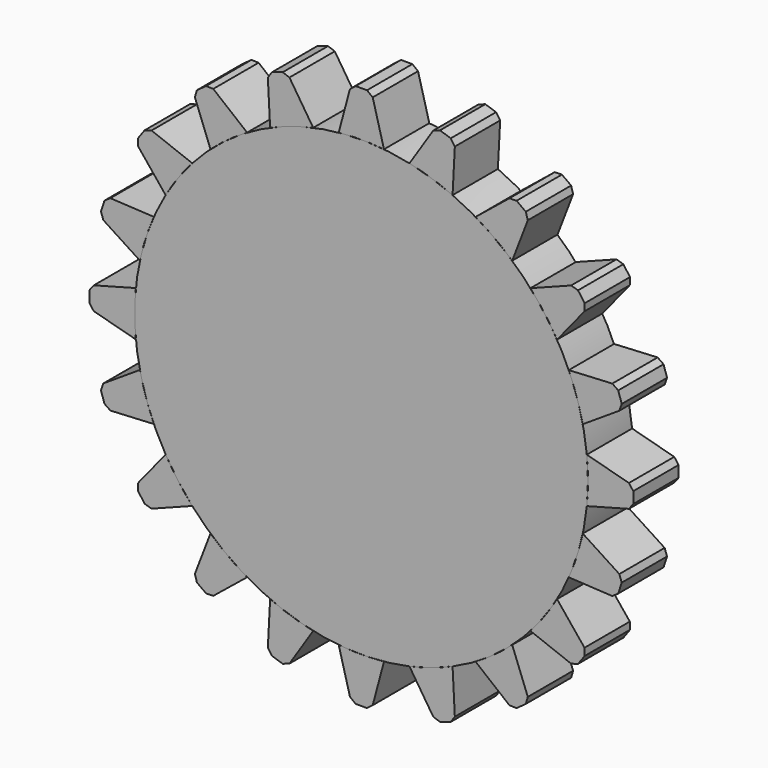
from build123d import *

# Parameters (mm, degrees)
F0_R     = 100
F1_DEPTH = 25
F3_DEPTH = 25
F4_SIZE  = 2
F5_COUNT = 20


with BuildPart() as f1:
    # F0 (on Front) → F1 (new body)
    with BuildSketch(Plane.XZ):
        Circle(F0_R)
    extrude(amount=F1_DEPTH)


with BuildPart() as f3:
    # F2 (on face) → F3 (new body)
    with BuildSketch(Plane.XZ.offset(25)):
        with BuildLine():
            Line((-4.5, 120.000239), (-9.993175, 99.499429))
            ThreePointArc((-9.993175, 99.499429), (0, 100), (9.993175, 99.499429))
            Line((9.993175, 99.499429), (4.5, 120.000239))
            Line((4.5, 120.000239), (-4.5, 120.000239))
        make_face()
    extrude(amount=-F3_DEPTH)

    # F4
    f4_edges = [f3.edges().sort_by_distance(p)[0] for p in [
        (-4.5, -12.5, 120.000239),
        (4.5, -12.5, 120.000239),
    ]]
    chamfer(f4_edges, length=F4_SIZE)


with BuildPart() as f5_1:
    # F5: instance of F3
    add(f3.part.rotate(Axis((0, -25, 0), (0, -1, 0)), 1 * 360 / F5_COUNT))


with BuildPart() as f5_2:
    # F5: instance of F3
    add(f3.part.rotate(Axis((0, -25, 0), (0, -1, 0)), 2 * 360 / F5_COUNT))


with BuildPart() as f5_3:
    # F5: instance of F3
    add(f3.part.rotate(Axis((0, -25, 0), (0, -1, 0)), 3 * 360 / F5_COUNT))


with BuildPart() as f5_4:
    # F5: instance of F3
    add(f3.part.rotate(Axis((0, -25, 0), (0, -1, 0)), 4 * 360 / F5_COUNT))


with BuildPart() as f5_5:
    # F5: instance of F3
    add(f3.part.rotate(Axis((0, -25, 0), (0, -1, 0)), 5 * 360 / F5_COUNT))


with BuildPart() as f5_6:
    # F5: instance of F3
    add(f3.part.rotate(Axis((0, -25, 0), (0, -1, 0)), 6 * 360 / F5_COUNT))


with BuildPart() as f5_7:
    # F5: instance of F3
    add(f3.part.rotate(Axis((0, -25, 0), (0, -1, 0)), 7 * 360 / F5_COUNT))


with BuildPart() as f5_8:
    # F5: instance of F3
    add(f3.part.rotate(Axis((0, -25, 0), (0, -1, 0)), 8 * 360 / F5_COUNT))


with BuildPart() as f5_9:
    # F5: instance of F3
    add(f3.part.rotate(Axis((0, -25, 0), (0, -1, 0)), 9 * 360 / F5_COUNT))


with BuildPart() as f5_10:
    # F5: instance of F3
    add(f3.part.rotate(Axis((0, -25, 0), (0, -1, 0)), 10 * 360 / F5_COUNT))


with BuildPart() as f5_11:
    # F5: instance of F3
    add(f3.part.rotate(Axis((0, -25, 0), (0, -1, 0)), 11 * 360 / F5_COUNT))


with BuildPart() as f5_12:
    # F5: instance of F3
    add(f3.part.rotate(Axis((0, -25, 0), (0, -1, 0)), 12 * 360 / F5_COUNT))


with BuildPart() as f5_13:
    # F5: instance of F3
    add(f3.part.rotate(Axis((0, -25, 0), (0, -1, 0)), 13 * 360 / F5_COUNT))


with BuildPart() as f5_14:
    # F5: instance of F3
    add(f3.part.rotate(Axis((0, -25, 0), (0, -1, 0)), 14 * 360 / F5_COUNT))


with BuildPart() as f5_15:
    # F5: instance of F3
    add(f3.part.rotate(Axis((0, -25, 0), (0, -1, 0)), 15 * 360 / F5_COUNT))


with BuildPart() as f5_16:
    # F5: instance of F3
    add(f3.part.rotate(Axis((0, -25, 0), (0, -1, 0)), 16 * 360 / F5_COUNT))


with BuildPart() as f5_17:
    # F5: instance of F3
    add(f3.part.rotate(Axis((0, -25, 0), (0, -1, 0)), 17 * 360 / F5_COUNT))


with BuildPart() as f5_18:
    # F5: instance of F3
    add(f3.part.rotate(Axis((0, -25, 0), (0, -1, 0)), 18 * 360 / F5_COUNT))


with BuildPart() as f5_19:
    # F5: instance of F3
    add(f3.part.rotate(Axis((0, -25, 0), (0, -1, 0)), 19 * 360 / F5_COUNT))


solid = Compound([f1.part, f3.part, f5_1.part, f5_2.part, f5_3.part, f5_4.part, f5_5.part, f5_6.part, f5_7.part, f5_8.part, f5_9.part, f5_10.part, f5_11.part, f5_12.part, f5_13.part, f5_14.part, f5_15.part, f5_16.part, f5_17.part, f5_18.part, f5_19.part])
